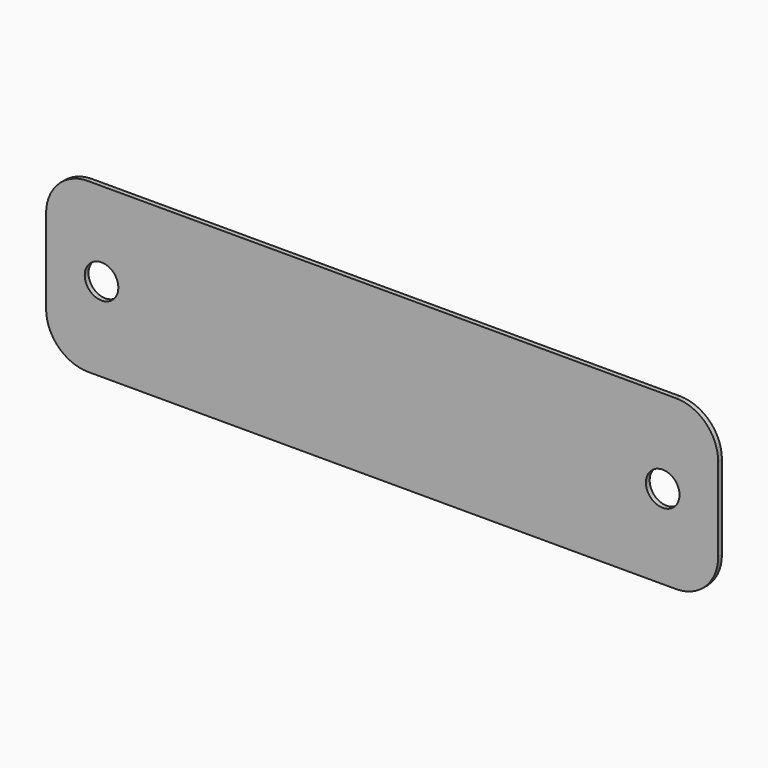
from build123d import *

# Parameters (mm, degrees)
F1_DEPTH = 0.7112
F2_R     = 2.54
F3_DEPTH = 25.4


with BuildPart() as f1:
    # F0 (on Front) → F1 (new body)
    with BuildSketch(Plane.XZ):
        with BuildLine():
            Line((48.109472, 29.950177), (-40.790528, 29.950177))
            ThreePointArc((-40.790528, 29.950177), (-45.280656, 28.090305), (-47.140528, 23.600177))
            Line((-47.140528, 23.600177), (-47.140528, 10.900177))
            ThreePointArc((-47.140528, 10.900177), (-45.280656, 6.410049), (-40.790528, 4.550177))
            Line((-40.790528, 4.550177), (48.109472, 4.550177))
            ThreePointArc((48.109472, 4.550177), (52.599601, 6.410049), (54.459472, 10.900177))
            Line((54.459472, 10.900177), (54.459472, 23.600177))
            ThreePointArc((54.459472, 23.600177), (52.599601, 28.090305), (48.109472, 29.950177))
        make_face()
    extrude(amount=F1_DEPTH)

    # F2 (on face) → F3 (cut)
    with BuildSketch(Plane.XZ.offset(0.7112)):
        with BuildLine():
            ThreePointArc((-36.218528, 17.250177), (-38.758528, 19.790177), (-41.298528, 17.250177))
            ThreePointArc((-41.298528, 17.250177), (-38.758528, 14.710177), (-36.218528, 17.250177))
        make_face()
        with Locations((46.077472, 17.250177)):
            Circle(F2_R)
    extrude(amount=-F3_DEPTH, mode=Mode.SUBTRACT)


solid = f1.part
